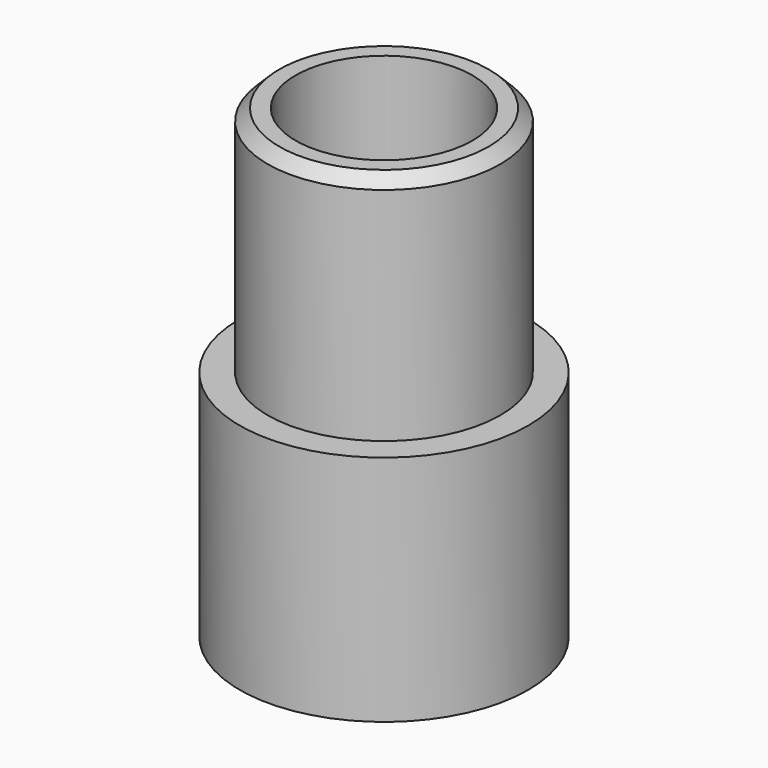
from build123d import *

# Parameters (mm, degrees)
F0_R     = 6.2
F0_R_2   = 5
F1_DEPTH = 10
F0_R_3   = 3.8
F2_DEPTH = 20
F3_SIZE  = 0.5


with BuildPart() as f1:
    # F0 (on Top) → F1 (new body)
    with BuildSketch(Plane.XY):
        Circle(F0_R)
        Circle(F0_R_2, mode=Mode.SUBTRACT)
    extrude(amount=F1_DEPTH)

    # F0 (on Top) → F2 (join)
    with BuildSketch(Plane.XY):
        Circle(F0_R_2)
        Circle(F0_R_3, mode=Mode.SUBTRACT)
    extrude(amount=F2_DEPTH)

    # F3
    f3_edges = [f1.edges().sort_by_distance(p)[0] for p in [
        (-5, 0, 20),
    ]]
    chamfer(f3_edges, length=F3_SIZE)


solid = f1.part
